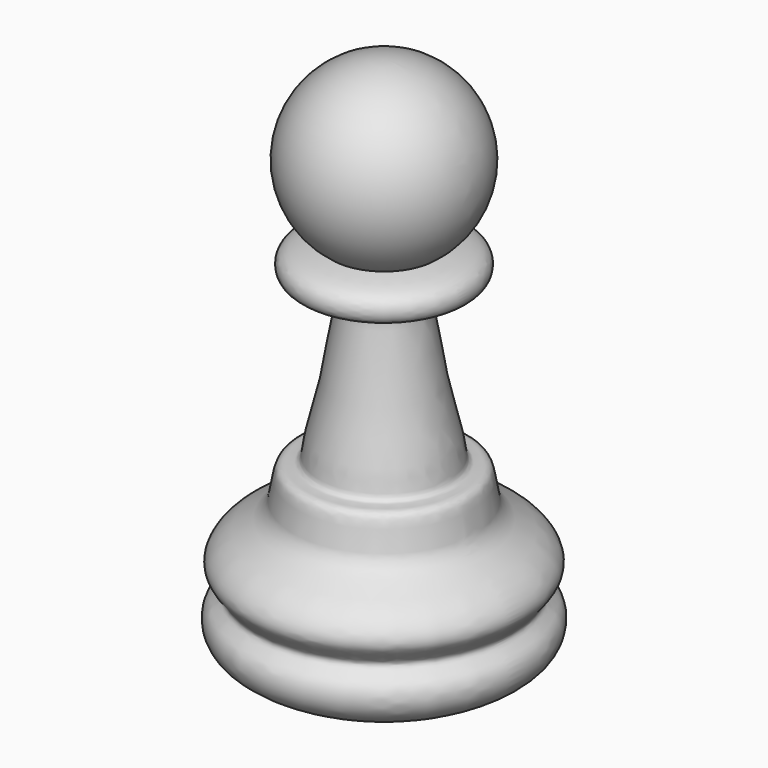
from build123d import *


with BuildPart() as f1:
    # F0 (on Front) → F1 (revolve)
    with BuildSketch(Plane.XZ):
        with BuildLine():
            add(Edge.make_bspline(
                [(156.4797759056, -92.3518538475), (157.4471951416, -91.8628566711), (159.2092337903, -90.972240899), (159.2626634222, -88.3857933104), (157.1860424687, -87.4990515236), (159.6848382817, -85.7782277305), (157.8562004512, -83.1680988973), (154.4072114328, -82.076909398), (154.8322432458, -77.9648308646), (152.7358750733, -78.5996952399), (152.689748758, -76.4917163715), (151.5628679324, -72.8124090314), (151.0776480142, -69.0368334956), (149.9749755725, -64.2179990942), (154.3450873606, -65.5139554804), (154.6727277556, -62.7804574307), (152.7946860854, -62.4270221084), (151.7110317945, -62.2230619192)],
                knots=[0, 0, 0, 0, 0.0720588756, 0.1322518537, 0.182942713, 0.2416094732, 0.3081417454, 0.3859251177, 0.4588548299, 0.5048113931, 0.5575049093, 0.6403848553, 0.7278358546, 0.8061502376, 0.8782817387, 0.9302986681, 1, 1, 1, 1], degree=3))
            ThreePointArc((151.7110317945, -62.2230619192), (154.3630737844, -54.0725229032), (147.4295705557, -49.0335601185))
            Line((147.4295705557, -49.0335601185), (147.4295705557, -92.3518538475))
            Line((147.4295705557, -92.3518538475), (156.4797759056, -92.3518538475))
        make_face()
    revolve(axis=Axis((147.4295705557, 0, -70.692706983), (0, 0, -1)))


solid = f1.part
